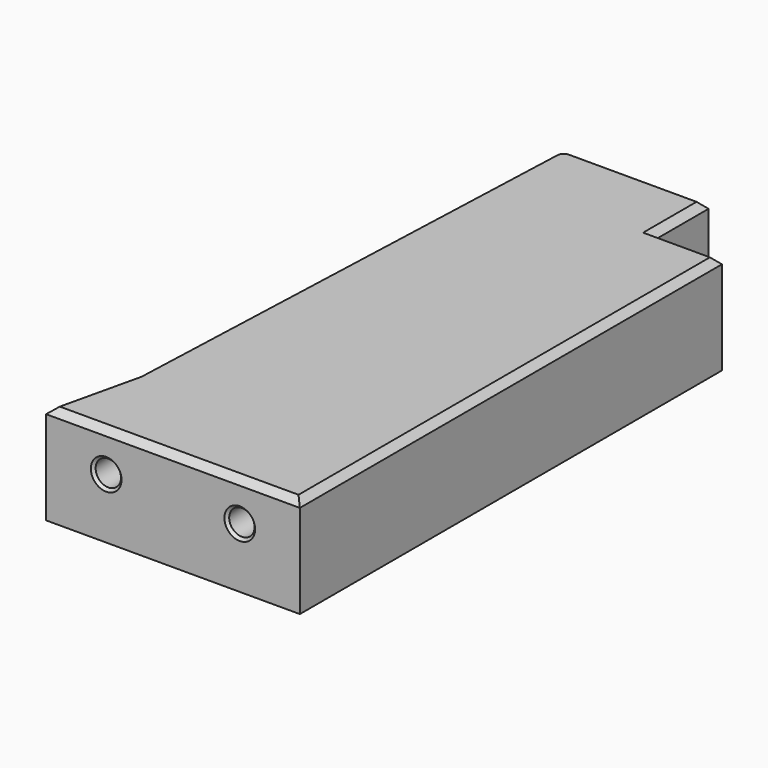
from build123d import *

# Parameters (mm, degrees)
PAD_DEPTH       = 15
FILLET002_R     = 2
CHAMFER003_SIZE = 1
SKETCH002_R     = 1.9
POCKET_DEPTH    = 7
SKETCH005_W     = 3.5
SKETCH005_H     = 6.5
POCKET003_DEPTH = 10
SKETCH007_R     = 1.95
POCKET005_DEPTH = 7
SKETCH010_W     = 24
SKETCH010_H     = 29
SKETCH010_W_2   = 23
SKETCH010_H_2   = 17
SKETCH010_W_3   = 13
SKETCH010_H_3   = 6
POCKET008_DEPTH = 10
CHAMFER020_SIZE = 0.4


with BuildPart() as part:
    # Sketch → Pad (new body)
    with BuildSketch(Plane.XY):
        Polygon((0, 36), (0, -43), (-38, -43), (-35, -30), (-32, 46), (-10, 46), (-10, 36), align=None)
    extrude(amount=PAD_DEPTH)

    # Fillet002
    fillet002_edges = [part.edges().sort_by_distance(p)[0] for p in [
        (-32, 46, 7.5),
    ]]
    fillet(fillet002_edges, radius=FILLET002_R)

    # Chamfer003
    chamfer003_edges = [part.edges().sort_by_distance(p)[0] for p in [
        (-19, -43, 15),
        (-33.537917, 7.039443, 15),
        (-36.5, -36.5, 15),
        (0, -3.5, 15),
        (-5, 36, 15),
        (-10, 41, 15),
        (-20.038695, 46, 15),
        (-31.463432, 45.441834, 15),
    ]]
    chamfer(chamfer003_edges, length=CHAMFER003_SIZE)

    # Sketch002 (on Face10 of Chamfer003) → Pocket (cut)
    with BuildSketch(Plane.XZ.offset(43)):
        with Locations((-29, 9)):
            Circle(SKETCH002_R)
        with Locations((-9, 9)):
            Circle(SKETCH002_R)
    extrude(amount=-POCKET_DEPTH, mode=Mode.SUBTRACT)

    # Sketch005 (on Face4 of Pocket) → Pocket003 (cut)
    with BuildSketch(Plane(origin=(0, 0, 0), x_dir=(1, 0, 0), z_dir=(0, 0, -1))):
        with Locations((-13.8, -40.83)):
            Rectangle(SKETCH005_W, SKETCH005_H)
    extrude(amount=-POCKET003_DEPTH, mode=Mode.SUBTRACT)

    # Sketch007 (on Face4 of Pocket003) → Pocket005 (cut)
    with BuildSketch(Plane(origin=(0, 0, 0), x_dir=(1, 0, 0), z_dir=(0, 0, -1))):
        with Locations((-19, 36)):
            Circle(SKETCH007_R)
        with Locations((-26, -40)):
            Circle(SKETCH007_R)
        with Locations((-7, -29)):
            Circle(SKETCH007_R)
    extrude(amount=-POCKET005_DEPTH, mode=Mode.SUBTRACT)

    # Sketch010 (on Face4 of Pocket005) → Pocket008 (cut)
    with BuildSketch(Plane(origin=(0, 0, 0), x_dir=(1, 0, 0), z_dir=(0, 0, -1))):
        with Locations((-17, 14.5)):
            Rectangle(SKETCH010_W, SKETCH010_H)
        with Locations((-16.5, -13.5)):
            Rectangle(SKETCH010_W_2, SKETCH010_H_2)
        with Locations((-20.5, -30)):
            Rectangle(SKETCH010_W_3, SKETCH010_H_3)
    extrude(amount=-POCKET008_DEPTH, mode=Mode.SUBTRACT)

    # Chamfer020
    chamfer020_edges = [part.edges().sort_by_distance(p)[0] for p in [
        (-20.95, -36, 0),
        (-27.95, 40, 0),
        (-8.95, 29, 0),
        (-15.55, 40.83, 0),
        (-13.8, 37.58, 0),
        (-12.05, 40.83, 0),
        (-13.8, 44.08, 0),
        (-30.9, -43, 9),
        (-10.9, -43, 9),
    ]]
    chamfer(chamfer020_edges, length=CHAMFER020_SIZE)


with BuildPart() as part_1:
    # Body placement: moved
    add(part.part.moved(Location((-50, 0, 0))))


solid = part_1.part
